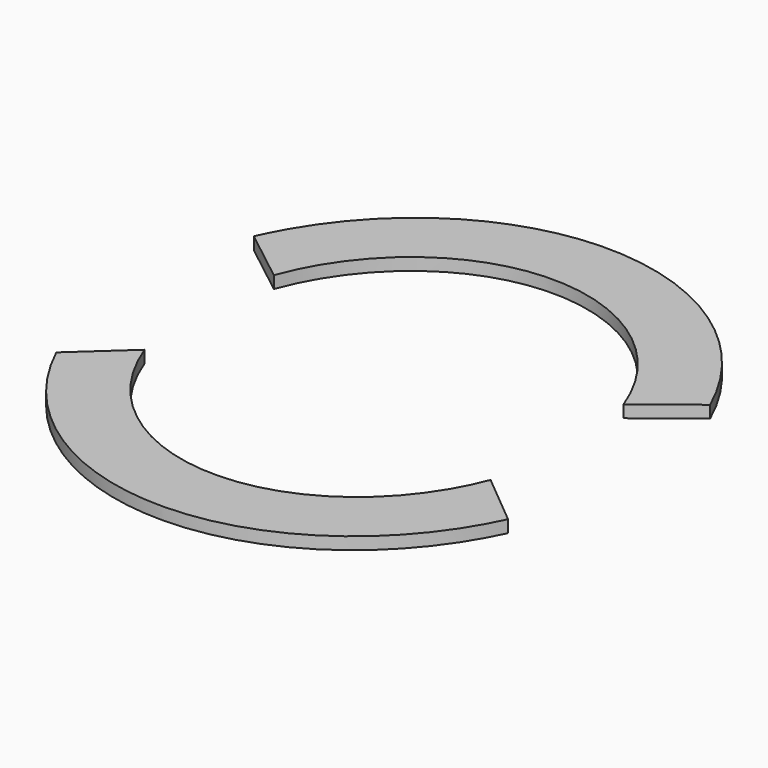
from build123d import *

# Parameters (mm, degrees)
F1_DEPTH = 3
F2_DEPTH = 3


with BuildPart() as f1:
    # F0 (on Top) → F1 (new body)
    with BuildSketch(Plane.XY):
        with BuildLine():
            add(Edge.make_bspline(
                [(55.884582, 29.975069), (38.840829, 68.309866), (0, 68.309866)],
                knots=[5.166663, 5.166663, 5.166663, 6.283185, 6.283185, 6.283185], degree=2, weights=[1, 0.848178, 1]))
            add(Edge.make_bspline(
                [(0, 68.309866), (-38.840829, 68.309866), (-55.884582, 29.975069)],
                knots=[0, 0, 0, 1.116522, 1.116522, 1.116522], degree=2, weights=[1, 0.848178, 1]))
            Line((-55.884582, 29.975069), (-42.833345, 19.788402))
            add(Edge.make_bspline(
                [(0, 51.764227), (-30.987471, 51.764227), (-42.833345, 19.788402)],
                knots=[0, 0, 0, 1.178534, 1.178534, 1.178534], degree=2, weights=[1, 0.831348, 1]))
            add(Edge.make_bspline(
                [(42.833345, 19.788402), (30.987471, 51.764227), (0, 51.764227)],
                knots=[5.104651, 5.104651, 5.104651, 6.283185, 6.283185, 6.283185], degree=2, weights=[1, 0.831348, 1]))
            Line((42.833345, 19.788402), (55.884582, 29.975069))
        make_face()
    extrude(amount=F1_DEPTH)


with BuildPart() as f2:
    # F0 (on Top) → F2 (new body)
    with BuildSketch(Plane.XY):
        with BuildLine():
            Line((-42.833345, -19.788402), (-55.327918, -31.196015))
            add(Edge.make_bspline(
                [(-55.327918, -31.196015), (0, -149.578009), (55.327918, -31.196015)],
                knots=[2.04506, 2.04506, 2.04506, 4.238125, 4.238125, 4.238125], degree=2, weights=[1, 0.456684, 1]))
            Line((55.327918, -31.196015), (42.544272, -20.551362))
            add(Edge.make_bspline(
                [(-42.833345, -19.788402), (-0.951925, -132.839828), (42.544272, -20.551362)],
                knots=[1.963058, 1.963058, 1.963058, 4.304123, 4.304123, 4.304123], degree=2, weights=[1, 0.389662, 1]))
        make_face()
    extrude(amount=F2_DEPTH)


solid = Compound([f1.part, f2.part])
